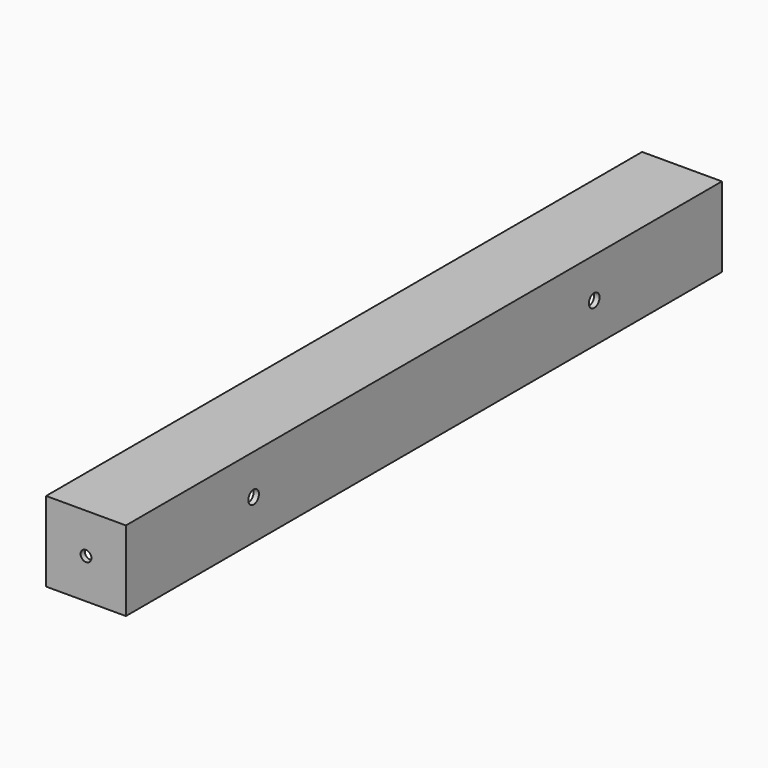
from build123d import *

# Parameters (mm, degrees)
F0_W     = 38.1
F0_H     = 38.1
F1_DEPTH = 177.8
F2_T     = -2.54
F3_R     = 2.579688
F4_DEPTH = 355.601
F5_R     = 3.175
F6_DEPTH = 38.101


with BuildPart() as f1:
    # F0 (on Front) → F1 (new body, symmetric)
    with BuildSketch(Plane.XZ):
        Rectangle(F0_W, F0_H)
    extrude(amount=F1_DEPTH, both=True)

    # F2
    f2_openings = [f1.faces().sort_by_distance(p)[0] for p in [
        (-19.05, 0, 0),
        (0, 0, -19.05),
    ]]
    offset(amount=F2_T, openings=f2_openings)

    # F3 (on face) → F4 (cut, through all)
    with BuildSketch(Plane(origin=(0, 177.8, 0), x_dir=(-1, 0, 0), z_dir=(0, 1, 0))):
        Circle(F3_R)
    extrude(amount=-F4_DEPTH, mode=Mode.SUBTRACT)

    # F5 (on face) → F6 (cut, through all)
    with BuildSketch(Plane.YZ.offset(19.05)):
        with Locations((-101.6, 0)):
            Circle(F5_R)
        with Locations((101.6, 0)):
            Circle(F5_R)
    extrude(amount=-F6_DEPTH, mode=Mode.SUBTRACT)


solid = f1.part
